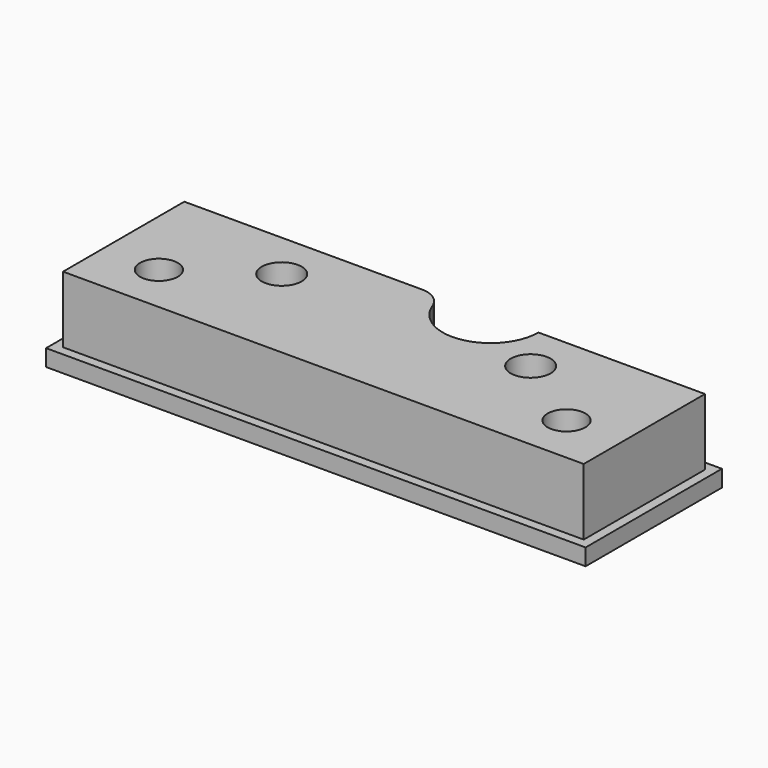
from build123d import *

# Parameters (mm, degrees)
F0_R     = 6
F0_R_2   = 6.35
F1_DEPTH = 26.5
F2_W     = 171.8
F2_H     = 54.26
F3_DEPTH = 5.3


with BuildPart() as f1:
    # F0 (on Top) → F1 (new body)
    with BuildSketch(Plane.XY):
        with BuildLine():
            Line((-7.184661, 32.6), (-82.9, 32.6))
            Line((-82.9, 32.6), (-82.9, -15.66))
            Line((-82.9, -15.66), (82.9, -15.66))
            Line((82.9, -15.66), (82.9, 32.6))
            Line((82.9, 32.6), (29.875, 32.6))
            ThreePointArc((29.875, 32.6), (17.299084, 17.594659), (0.32641, 27.353873))
            ThreePointArc((0.32641, 27.353873), (-2.603776, 31.15862), (-7.184661, 32.6))
        make_face()
        with Locations((-64.9, 0)):
            Circle(F0_R, mode=Mode.SUBTRACT)
        with Locations((64.9, 0)):
            Circle(F0_R, mode=Mode.SUBTRACT)
        with Locations((-39.635, 17.3)):
            Circle(F0_R_2, mode=Mode.SUBTRACT)
        with Locations((39.635, 17.3)):
            Circle(F0_R_2, mode=Mode.SUBTRACT)
    extrude(amount=F1_DEPTH)


with BuildPart() as f3:
    # F2 (on Top) → F3 (new body)
    with BuildSketch(Plane.XY):
        with Locations((0, 8.47)):
            Rectangle(F2_W, F2_H)
    extrude(amount=F3_DEPTH)


solid = Compound([f1.part, f3.part])
